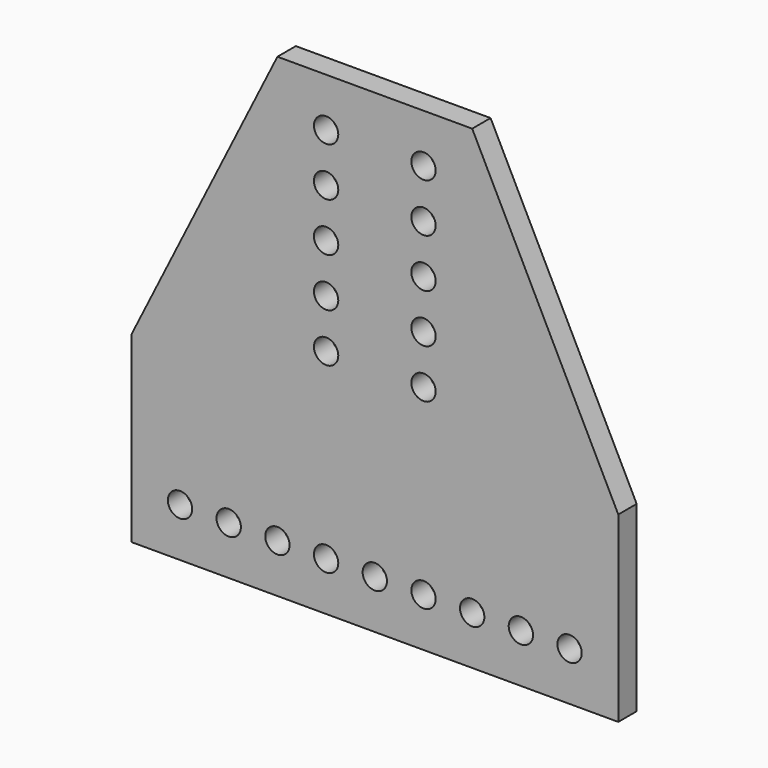
from build123d import *

# Parameters (mm, degrees)
F0_R     = 3.175
F1_DEPTH = 6


with BuildPart() as f1:
    # F0 (on Front) → F1 (new body)
    with BuildSketch(Plane.XZ):
        Polygon((-25.4, 123.825), (-63.5, 47.625), (-63.5, 0), (63.5, 0), (63.5, 47.625), (25.4, 123.825), align=None)
        with Locations((-50.8, 12.7)):
            Circle(F0_R, mode=Mode.SUBTRACT)
        with Locations((-38.1, 12.7)):
            Circle(F0_R, mode=Mode.SUBTRACT)
        with Locations((-25.4, 12.7)):
            Circle(F0_R, mode=Mode.SUBTRACT)
        with Locations((-12.7, 12.7)):
            Circle(F0_R, mode=Mode.SUBTRACT)
        with Locations((-12.7, 60.325)):
            Circle(F0_R, mode=Mode.SUBTRACT)
        with Locations((0, 12.7)):
            Circle(F0_R, mode=Mode.SUBTRACT)
        with Locations((12.7, 12.7)):
            Circle(F0_R, mode=Mode.SUBTRACT)
        with Locations((25.4, 12.7)):
            Circle(F0_R, mode=Mode.SUBTRACT)
        with Locations((38.1, 12.7)):
            Circle(F0_R, mode=Mode.SUBTRACT)
        with Locations((50.8, 12.7)):
            Circle(F0_R, mode=Mode.SUBTRACT)
        with Locations((12.7, 60.325)):
            Circle(F0_R, mode=Mode.SUBTRACT)
        with Locations((-12.7, 73.025)):
            Circle(F0_R, mode=Mode.SUBTRACT)
        with Locations((-12.7, 85.725)):
            Circle(F0_R, mode=Mode.SUBTRACT)
        with Locations((-12.7, 98.425)):
            Circle(F0_R, mode=Mode.SUBTRACT)
        with Locations((-12.7, 111.125)):
            Circle(F0_R, mode=Mode.SUBTRACT)
        with Locations((12.7, 73.025)):
            Circle(F0_R, mode=Mode.SUBTRACT)
        with Locations((12.7, 85.725)):
            Circle(F0_R, mode=Mode.SUBTRACT)
        with Locations((12.7, 98.425)):
            Circle(F0_R, mode=Mode.SUBTRACT)
        with Locations((12.7, 111.125)):
            Circle(F0_R, mode=Mode.SUBTRACT)
    extrude(amount=F1_DEPTH)


solid = f1.part
